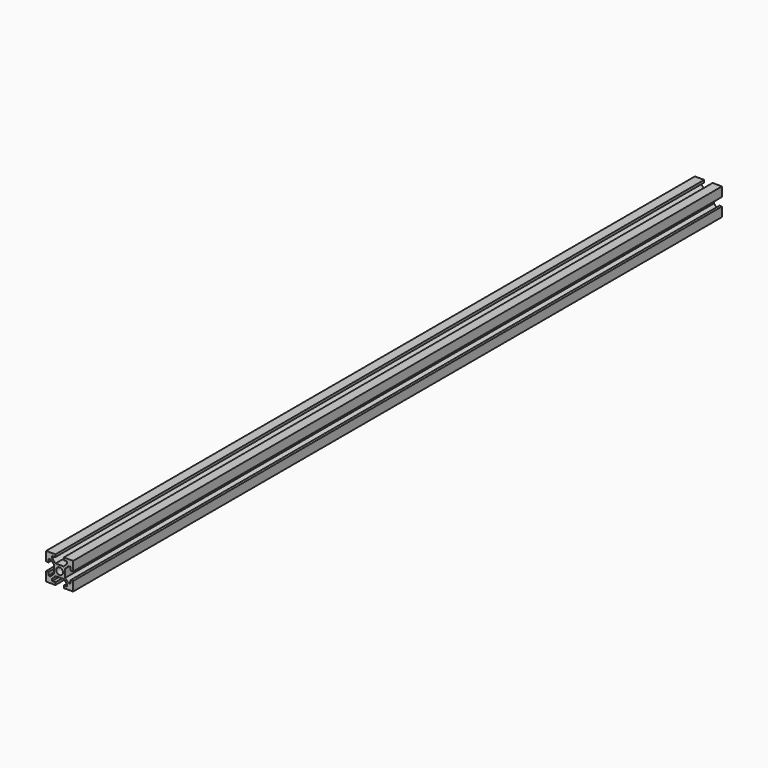
from build123d import *

# Parameters (mm, degrees)
F0_R     = 2.5
F1_DEPTH = 600


with BuildPart() as f1:
    # F0 (on Front) → F1 (new body)
    with BuildSketch(Plane.XZ):
        Polygon((-25.657687, 59.933542), (-32.557687, 59.933542), (-32.557687, 53.033542), (-30.757687, 53.033542), (-30.757687, 55.433542), (-29.157687, 55.433542), (-26.657687, 52.933542), (-26.657687, 46.933542), (-29.157687, 44.433542), (-30.757687, 44.433542), (-30.757687, 46.833542), (-32.557687, 46.833542), (-32.557687, 39.933542), (-25.657687, 39.933542), (-25.657687, 41.733542), (-28.057687, 41.733542), (-28.057687, 43.333542), (-25.557687, 45.833542), (-22.557687, 45.833542), (-19.557687, 45.833542), (-17.057687, 43.333542), (-17.057687, 41.733542), (-19.457687, 41.733542), (-19.457687, 39.933542), (-12.557687, 39.933542), (-12.557687, 46.833542), (-14.357687, 46.833542), (-14.357687, 44.433542), (-15.957687, 44.433542), (-18.457687, 46.933542), (-18.457687, 52.933542), (-15.957687, 55.433542), (-14.357687, 55.433542), (-14.357687, 53.033542), (-12.557687, 53.033542), (-12.557687, 59.933542), (-19.457687, 59.933542), (-19.457687, 58.133542), (-17.057687, 58.133542), (-17.057687, 56.533542), (-19.557687, 54.033542), (-22.557687, 54.033542), (-25.557687, 54.033542), (-28.057687, 56.533542), (-28.057687, 58.133542), (-25.657687, 58.133542), align=None)
        with Locations((-22.557687, 49.933542)):
            Circle(F0_R, mode=Mode.SUBTRACT)
    extrude(amount=F1_DEPTH)


solid = f1.part
